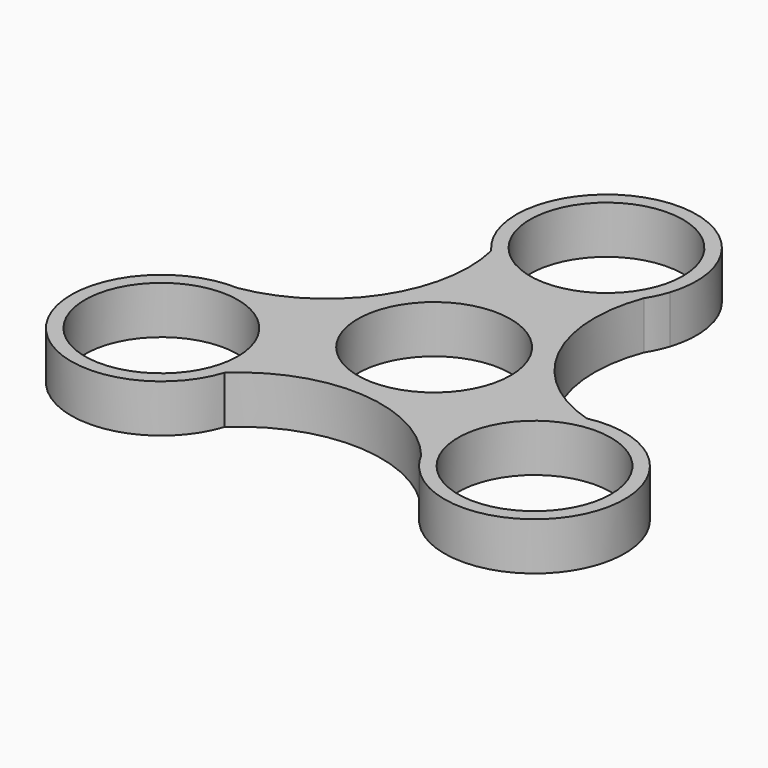
from build123d import *

# Parameters (mm, degrees)
F0_R     = 11.2
F1_DEPTH = 7


with BuildPart() as f1:
    # F0 (on Top) → F1 (new body)
    with BuildSketch(Plane.XY):
        with BuildLine():
            ThreePointArc((12.546697, 27.446301), (11.783411, 25.983063), (11.138355, 24.463993))
            ThreePointArc((11.138355, 24.463993), (11.936036, 25.910989), (12.546697, 27.446301))
        make_face()
        with BuildLine():
            ThreePointArc((24.605529, -2.856113), (11.935465, 7.877613), (11.138355, 24.463993))
            ThreePointArc((11.138355, 24.463993), (11.783411, 25.983063), (12.546697, 27.446301))
            ThreePointArc((12.546697, 27.446301), (-2.718507, 44.464601), (-9.829299, 22.73707))
            ThreePointArc((-9.829299, 22.73707), (-12.789945, 6.397609), (-26.755617, -2.585898))
            ThreePointArc((-26.755617, -2.585898), (-28.393698, -2.786798), (-30.042542, -2.857392))
            ThreePointArc((-30.042542, -2.857392), (-37.148221, -24.586596), (-14.776231, -19.880957))
            ThreePointArc((-14.776231, -19.880957), (0.85448, -14.275222), (15.617262, -21.878095))
            ThreePointArc((15.617262, -21.878095), (16.610287, -23.196265), (17.495845, -24.588909))
            ThreePointArc((17.495845, -24.588909), (39.866727, -19.878005), (24.605529, -2.856113))
        make_face()
        with Locations((-27.320996, -15.773784)):
            Circle(F0_R, mode=Mode.SUBTRACT)
        with Locations((27.320996, -15.773784)):
            Circle(F0_R, mode=Mode.SUBTRACT)
        Circle(F0_R, mode=Mode.SUBTRACT)
        with Locations((0, 31.547569)):
            Circle(F0_R, mode=Mode.SUBTRACT)
        with BuildLine():
            ThreePointArc((15.617262, -21.878095), (16.471556, -23.292405), (17.495845, -24.588909))
            ThreePointArc((17.495845, -24.588909), (16.610287, -23.196265), (15.617262, -21.878095))
        make_face()
        with BuildLine():
            ThreePointArc((-30.042542, -2.857392), (-28.393698, -2.786798), (-26.755617, -2.585898))
            ThreePointArc((-26.755617, -2.585898), (-28.407592, -2.618584), (-30.042542, -2.857392))
        make_face()
    extrude(amount=F1_DEPTH)


solid = f1.part
